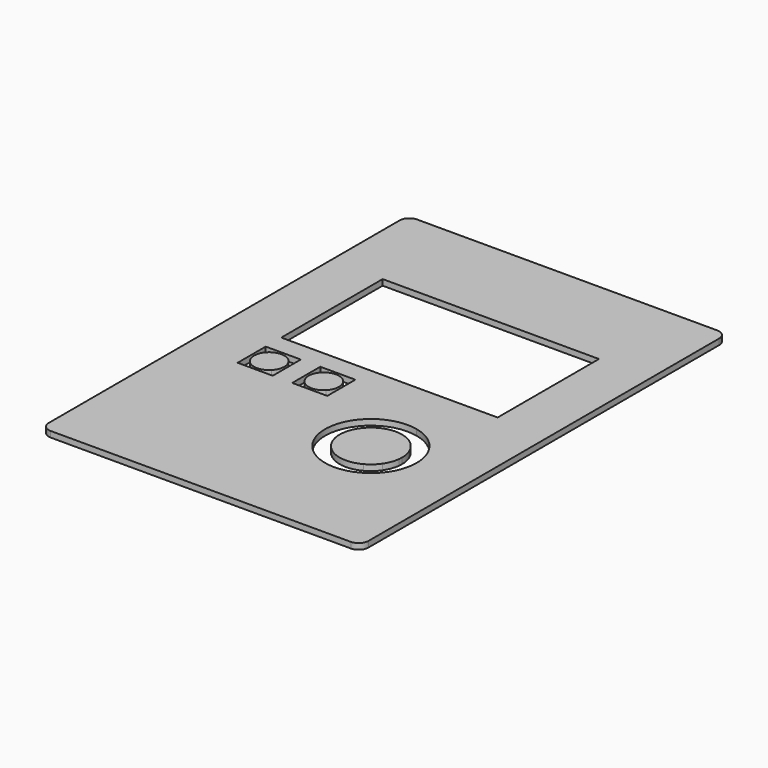
from build123d import *

# Parameters (mm, degrees)
F0_W     = 164
F0_H     = 235
F0_W_2   = 103
F0_H_2   = 57
F1_DEPTH = 3
F2_R     = 5
F3_W     = 111
F3_H     = 65
F4_DEPTH = 3.001


with BuildPart() as f1:
    # F0 (on Top) → F1 (new body)
    with BuildSketch(Plane.XY):
        with Locations((77, 112.5)):
            Rectangle(F0_W, F0_H)
        with Locations((77, 148.5)):
            Rectangle(F0_W_2, F0_H_2, mode=Mode.SUBTRACT)
    extrude(amount=F1_DEPTH)

    # F2
    f2_edges = [f1.edges().sort_by_distance(p)[0] for p in [
        (-5, 230, 1.5),
        (159, 230, 1.5),
        (159, -5, 1.5),
        (-5, -5, 1.5),
    ]]
    fillet(f2_edges, radius=F2_R)

    # F3 (on face) → F4 (cut, through all)
    with BuildSketch(Plane.XY.offset(3)):
        with BuildLine():
            ThreePointArc((35.980078, 102.480078), (37.660066, 99.965797), (38.25, 97))
            ThreePointArc((38.25, 97), (37.660066, 94.034203), (35.980078, 91.519922))
            Line((35.980078, 91.519922), (39.5, 88))
            Line((39.5, 88), (39.5, 106))
            Line((39.5, 106), (35.980078, 102.480078))
        make_face()
        with BuildLine():
            ThreePointArc((25.019922, 102.480078), (30.5, 104.75), (35.980078, 102.480078))
            Line((35.980078, 102.480078), (39.5, 106))
            Line((39.5, 106), (21.5, 106))
            Line((21.5, 106), (25.019922, 102.480078))
        make_face()
        with BuildLine():
            Line((39.5, 88), (35.980078, 91.519922))
            ThreePointArc((35.980078, 91.519922), (30.5, 89.25), (25.019922, 91.519922))
            Line((25.019922, 91.519922), (21.5, 88))
            Line((21.5, 88), (39.5, 88))
        make_face()
        with BuildLine():
            ThreePointArc((25.019922, 91.519922), (22.75, 97), (25.019922, 102.480078))
            Line((25.019922, 102.480078), (21.5, 106))
            Line((21.5, 106), (21.5, 88))
            Line((21.5, 88), (25.019922, 91.519922))
        make_face()
        with BuildLine():
            Line((49.5, 106), (49.5, 88))
            Line((49.5, 88), (53.019922, 91.519922))
            ThreePointArc((53.019922, 91.519922), (50.75, 97), (53.019922, 102.480078))
            Line((53.019922, 102.480078), (49.5, 106))
        make_face()
        with BuildLine():
            Line((53.019922, 91.519922), (49.5, 88))
            Line((49.5, 88), (67.5, 88))
            Line((67.5, 88), (63.980078, 91.519922))
            ThreePointArc((63.980078, 91.519922), (58.5, 89.25), (53.019922, 91.519922))
        make_face()
        with BuildLine():
            Line((63.980078, 91.519922), (67.5, 88))
            Line((67.5, 88), (67.5, 106))
            Line((67.5, 106), (63.980078, 102.480078))
            ThreePointArc((63.980078, 102.480078), (65.660066, 99.965797), (66.25, 97))
            ThreePointArc((66.25, 97), (65.660066, 94.034203), (63.980078, 91.519922))
        make_face()
        with BuildLine():
            Line((67.5, 106), (49.5, 106))
            Line((49.5, 106), (53.019922, 102.480078))
            ThreePointArc((53.019922, 102.480078), (58.5, 104.75), (63.980078, 102.480078))
            Line((63.980078, 102.480078), (67.5, 106))
        make_face()
        with Locations((77, 148.5)):
            Rectangle(F3_W, F3_H)
        with BuildLine():
            Line((130.138236, 73.636492), (123.175361, 70.861539))
            ThreePointArc((123.175361, 70.861539), (124.02545, 67.953854), (124.31224, 64.938057))
            ThreePointArc((124.31224, 64.938057), (124.288288, 64.062903), (124.216503, 63.190368))
            Line((124.216503, 63.190368), (131.667118, 62.371634))
            ThreePointArc((131.667118, 62.371634), (131.772532, 63.652922), (131.807705, 64.938057))
            ThreePointArc((131.807705, 64.938057), (131.386563, 69.366654), (130.138236, 73.636492))
        make_face()
        with BuildLine():
            ThreePointArc((118.654691, 77.145994), (121.300843, 74.2813), (123.175361, 70.861539))
            Line((123.175361, 70.861539), (130.138236, 73.636492))
            ThreePointArc((130.138236, 73.636492), (127.385569, 78.658297), (123.499783, 82.865004))
            Line((123.499783, 82.865004), (118.654691, 77.145994))
        make_face()
        with BuildLine():
            Line((131.667118, 62.371634), (124.216503, 63.190368))
            ThreePointArc((124.216503, 63.190368), (123.321274, 59.394693), (121.53438, 55.92834))
            Line((121.53438, 55.92834), (127.728511, 51.707589))
            ThreePointArc((127.728511, 51.707589), (130.352505, 56.797812), (131.667118, 62.371634))
        make_face()
        with BuildLine():
            ThreePointArc((111.712803, 80.572512), (115.394109, 79.285431), (118.654691, 77.145994))
            Line((118.654691, 77.145994), (123.499783, 82.865004))
            ThreePointArc((123.499783, 82.865004), (118.711727, 86.006696), (113.305853, 87.896731))
            Line((113.305853, 87.896731), (111.712803, 80.572512))
        make_face()
        with BuildLine():
            Line((127.728511, 51.707589), (121.53438, 55.92834))
            ThreePointArc((121.53438, 55.92834), (118.961979, 52.997242), (115.756891, 50.77553))
            Line((115.756891, 50.77553), (119.244461, 44.14086))
            ThreePointArc((119.244461, 44.14086), (123.951025, 47.403369), (127.728511, 51.707589))
        make_face()
        with BuildLine():
            ThreePointArc((115.756891, 50.77553), (92.457597, 62.786243), (111.712803, 80.572512))
            Line((111.712803, 80.572512), (113.305853, 87.896731))
            ThreePointArc((113.305853, 87.896731), (85.030227, 61.778189), (119.244461, 44.14086))
            Line((119.244461, 44.14086), (115.756891, 50.77553))
        make_face()
    extrude(amount=-F4_DEPTH, mode=Mode.SUBTRACT)


solid = f1.part
